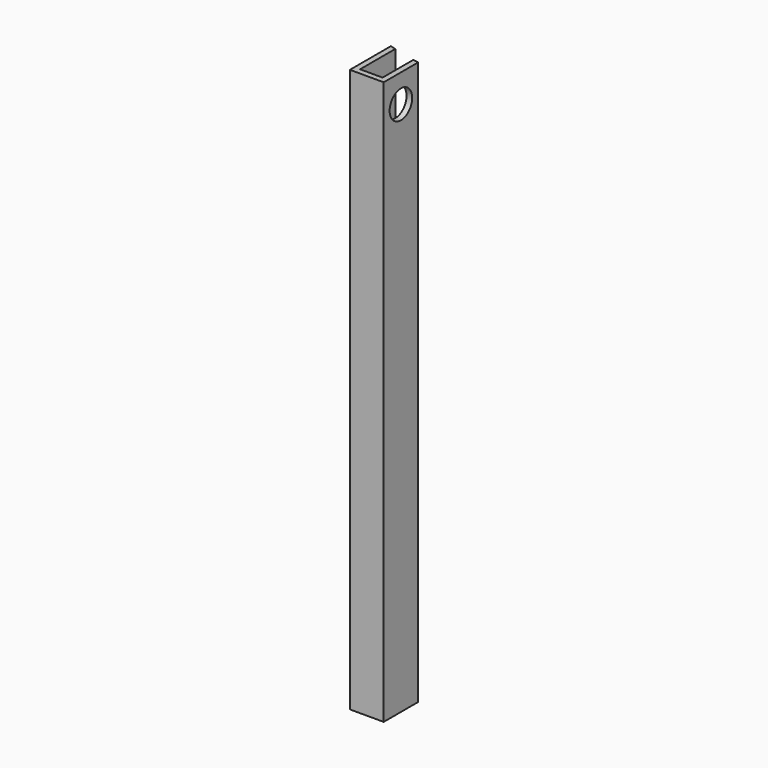
from build123d import *

# Parameters (mm, degrees)
F0_W     = 20
F0_H     = 5
F1_DEPTH = 500
F2_R     = 12.5
F3_DEPTH = 50


with BuildPart() as f1:
    # F0 (on Top) → F1 (new body)
    with BuildSketch(Plane.XY):
        with BuildLine():
            Line((-9.995486, -11.592771), (-9.995486, 27.50601))
            ThreePointArc((-9.995486, 27.50601), (-12.499174, 28.243273), (-14.995486, 29.005138))
            Line((-14.995486, 29.005138), (-14.995486, -16.592771))
            Line((-14.995486, -16.592771), (-9.995486, -16.592771))
            Line((-9.995486, -16.592771), (-9.995486, -11.592771))
        make_face()
        with Locations((0.004514, -14.092771)):
            Rectangle(F0_W, F0_H)
        with BuildLine():
            Line((15.004514, -16.592771), (15.004514, 21.573286))
            ThreePointArc((15.004514, 21.573286), (12.502153, 22.05284), (10.004514, 22.55641))
            Line((10.004514, 22.55641), (10.004514, -11.592771))
            Line((10.004514, -11.592771), (10.004514, -16.592771))
            Line((10.004514, -16.592771), (15.004514, -16.592771))
        make_face()
    extrude(amount=F1_DEPTH)

    # F2 (on face) → F3 (cut)
    with BuildSketch(Plane.YZ.offset(15.004514)):
        with Locations((2.490257, 475)):
            Circle(F2_R)
    extrude(amount=-F3_DEPTH, mode=Mode.SUBTRACT)


solid = f1.part
